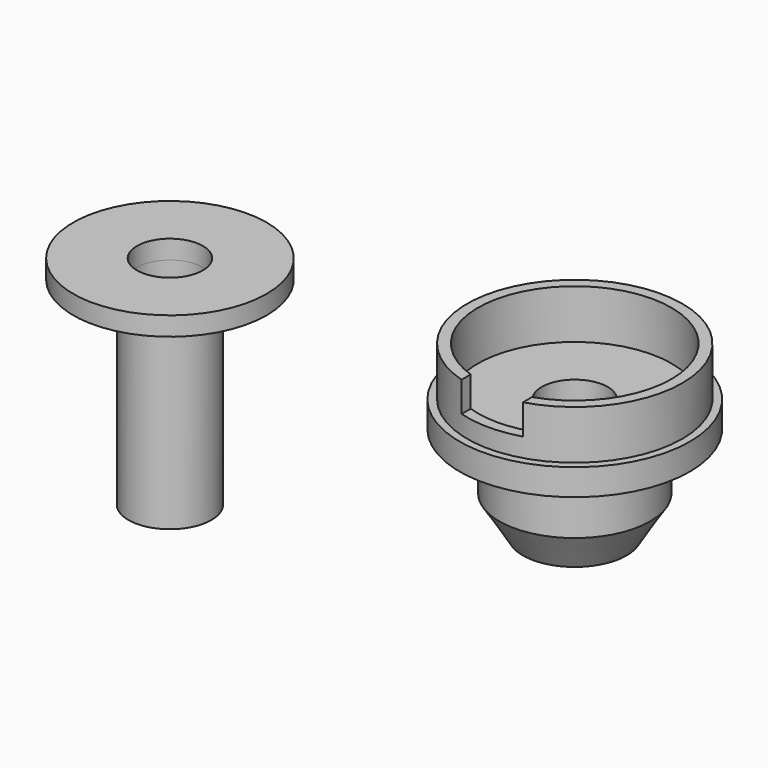
from build123d import *

# Parameters (mm, degrees)
F0_R     = 5.125
F0_R_2   = 2.2
F0_R_3   = 1.75
F1_DEPTH = 1
F2_DEPTH = 10.5
F5_W     = 3.25
F5_H     = 1.6
F6_DEPTH = 6.101


with BuildPart() as f1:
    # F0 (on Top) → F1 (new body)
    with BuildSketch(Plane.XY):
        Circle(F0_R)
        Circle(F0_R_2, mode=Mode.SUBTRACT)
        Circle(F0_R_2)
        Circle(F0_R_3, mode=Mode.SUBTRACT)
    extrude(amount=F1_DEPTH)

    # F0 (on Top) → F2 (join)
    with BuildSketch(Plane.XY):
        Circle(F0_R_2)
        Circle(F0_R_3, mode=Mode.SUBTRACT)
    extrude(amount=-F2_DEPTH)


with BuildPart() as f4:
    # F3 (on Front) → F4 (revolve)
    with BuildSketch(Plane.XZ):
        Polygon((25.4486941695, -3), (25.4486941695, 0), (27.5486941695, 0), (27.5486941695, 1.4), (27.1486941695, 1.4), (27.1486941695, 4), (26.5736941695, 4), (26.5736941695, 1.4), (23.1986941695, 1.4), (23.1986941695, -5), (24.1986941695, -5), align=None)
    revolve(axis=Axis((21.4486941695, 0, -0.6741590851), (0, 0, -1)))

    # F5 (on Front) → F6 (cut, through all)
    with BuildSketch(Plane.XZ):
        with Locations((21.4486941695, 3.2)):
            Rectangle(F5_W, F5_H)
    extrude(amount=F6_DEPTH, mode=Mode.SUBTRACT)


solid = Compound([f1.part, f4.part])
